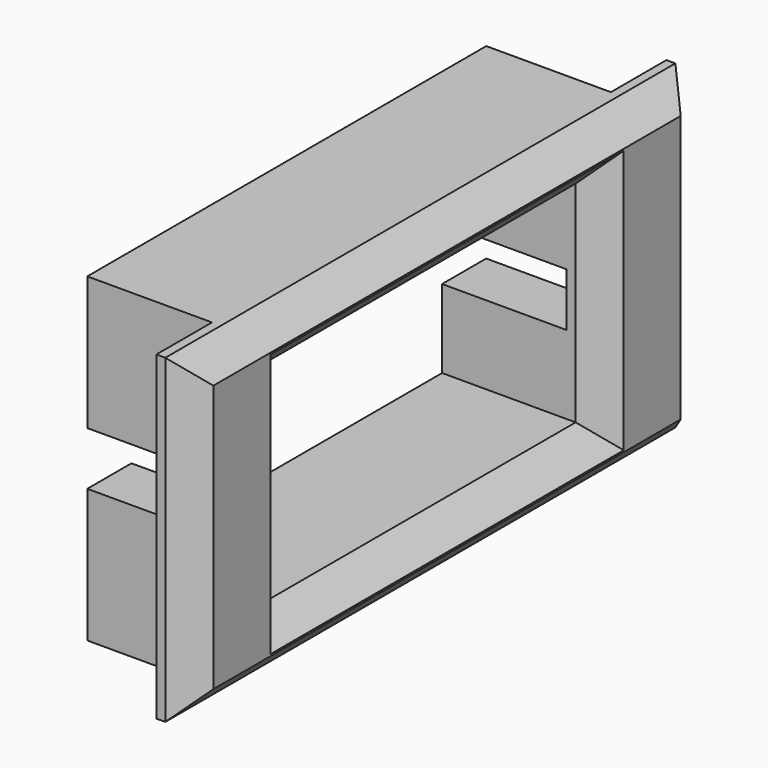
from build123d import *

# Parameters (mm, degrees)
F0_W     = 28
F0_H     = 18
F0_W_2   = 21.8
F0_H_2   = 11.8
F1_DEPTH = 7
F2_W     = 35.8
F2_H     = 18
F2_W_2   = 21.8
F2_H_2   = 11.8
F3_DEPTH = 2
F4_W     = 7
F4_H     = 3
F5_DEPTH = 31.901
F6_SIZE  = 1.5


with BuildPart() as f1:
    # F0 (on Right) → F1 (new body)
    with BuildSketch(Plane.YZ):
        Rectangle(F0_W, F0_H)
        Rectangle(F0_W_2, F0_H_2, mode=Mode.SUBTRACT)
    extrude(amount=-F1_DEPTH)

    # F2 (on face) → F3 (join)
    with BuildSketch(Plane.YZ):
        Rectangle(F2_W, F2_H)
        Rectangle(F2_W_2, F2_H_2, mode=Mode.SUBTRACT)
    extrude(amount=F3_DEPTH)

    # F4 (on face) → F5 (cut, through all)
    with BuildSketch(Plane(origin=(0, 14, 0), x_dir=(-1, 0, 0), z_dir=(0, 1, 0))):
        with Locations((3.5, 0)):
            Rectangle(F4_W, F4_H)
    extrude(amount=-F5_DEPTH, mode=Mode.SUBTRACT)

    # F6
    f6_edges = [f1.edges().sort_by_distance(p)[0] for p in [
        (2, 17.9, 0),
        (2, 0, 9),
        (2, -17.9, 0),
        (2, 0, -9),
        (2, 0, 5.9),
        (2, 10.9, 0),
        (2, 0, -5.9),
        (2, -10.9, 0),
    ]]
    chamfer(f6_edges, length=F6_SIZE)


solid = f1.part
